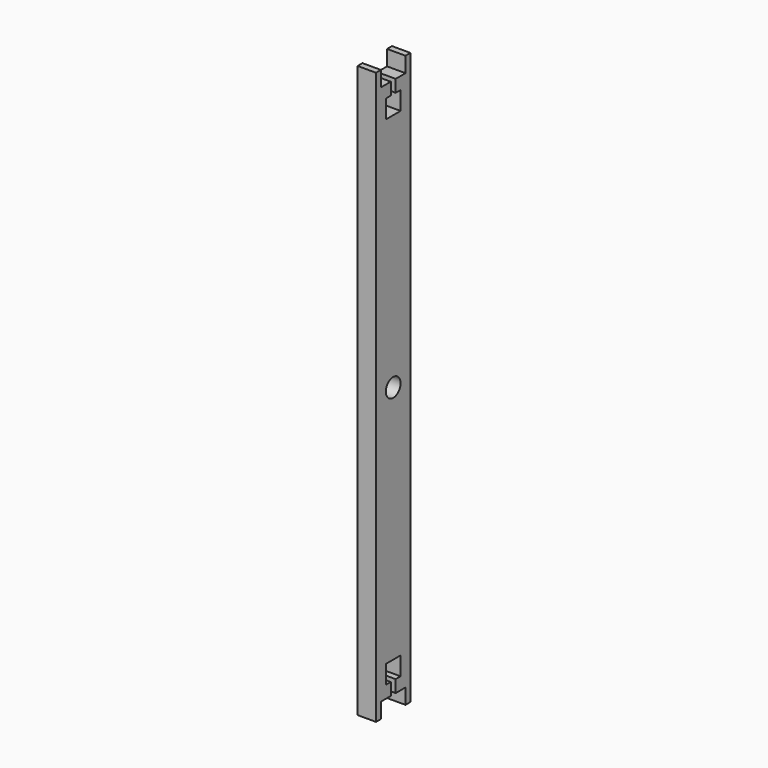
from build123d import *

# Parameters (mm, degrees)
F1_DEPTH = 3
F2_R     = 1.5
F3_DEPTH = 3.001


with BuildPart() as f1:
    # F0 (on Right) → F1 (new body)
    with BuildSketch(Plane.YZ):
        Polygon((0, 93), (0, 0), (1, 0), (1, 2.5), (3, 2.5), (3, 4.5), (2, 4.5), (2, 7.5), (5, 7.5), (5, 4.5), (4, 4.5), (4, 2.5), (6, 2.5), (6, 0), (7, 0), (7, 93), (6, 93), (6, 90.5), (4, 90.5), (4, 88.5), (5, 88.5), (5, 85.5), (2, 85.5), (2, 88.5), (3, 88.5), (3, 90.5), (1, 90.5), (1, 93), align=None)
    extrude(amount=F1_DEPTH)

    # F2 (on face) → F3 (cut, through all)
    with BuildSketch(Plane.YZ.offset(3)):
        with Locations((3.5, 46.5)):
            Circle(F2_R)
    extrude(amount=-F3_DEPTH, mode=Mode.SUBTRACT)


solid = f1.part
